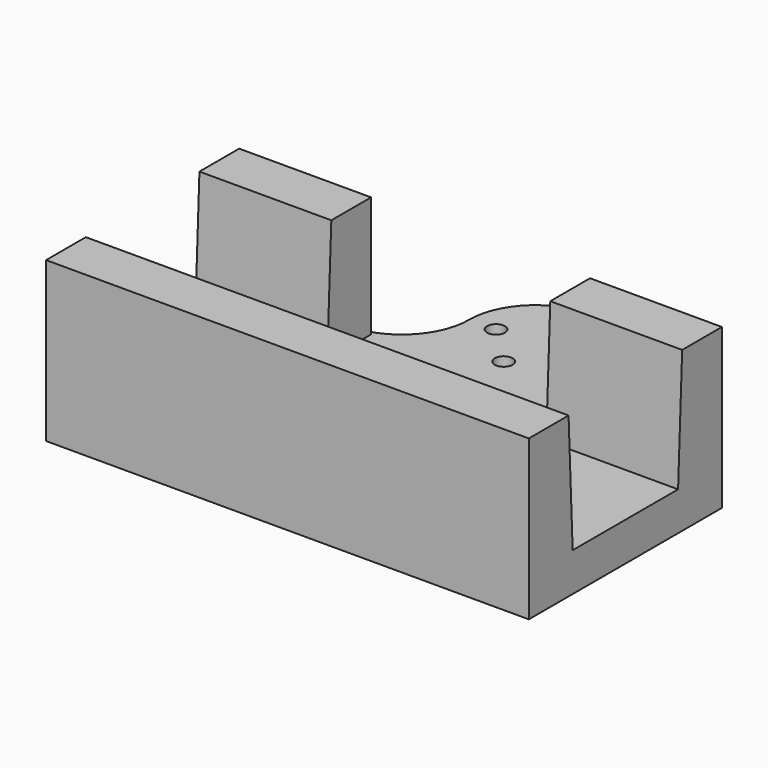
from build123d import *

# Parameters (mm, degrees)
F0_W     = 45.36
F0_H     = 15
F0_R     = 1.85
F1_DEPTH = 8
F3_DEPTH = 25
F5_DEPTH = 100


with BuildPart() as f1:
    # F0 (on Top) → F1 (new body)
    with BuildSketch(Plane.XY):
        with BuildLine():
            ThreePointArc((27.5, -14), (17.600505, -9.899495), (13.5, 0))
            ThreePointArc((13.5, 0), (0, 13.5), (-13.5, 0))
            ThreePointArc((-13.5, 0), (-17.600505, -9.899495), (-27.5, -14))
            Line((-27.5, -14), (-50, -14))
            Line((-50, -14), (-50, -64))
            Line((-50, -64), (50, -64))
            Line((50, -64), (50, -14))
            Line((50, -14), (27.5, -14))
        make_face()
        with Locations((0, -29.65)):
            Rectangle(F0_W, F0_H, mode=Mode.SUBTRACT)
        with Locations((-8, 0)):
            Circle(F0_R, mode=Mode.SUBTRACT)
        with Locations((0, -8)):
            Circle(F0_R, mode=Mode.SUBTRACT)
        with Locations((8, 0)):
            Circle(F0_R, mode=Mode.SUBTRACT)
        with Locations((0, 8)):
            Circle(F0_R, mode=Mode.SUBTRACT)
    extrude(amount=F1_DEPTH)

    # F2 (on face) → F3 (join)
    with BuildSketch(Plane.XY.offset(8)):
        Polygon((-27.5, -14), (-50, -14), (-50, -64), (50, -64), (50, -14), (27.5, -14), (22.68, -14), (22.68, -22.15), (22.68, -37.15), (-22.68, -37.15), (-22.68, -22.15), (-22.68, -14), align=None)
    extrude(amount=F3_DEPTH)

    # F4 (on face) → F5 (cut, through all)
    with BuildSketch(Plane(origin=(-50, 0, 0), x_dir=(0, -1, 0), z_dir=(-1, 0, 0))):
        Polygon((24.292708, 33), (25.35, 8), (52.65, 8), (53.707292, 33), align=None)
    extrude(amount=-F5_DEPTH, mode=Mode.SUBTRACT)


solid = f1.part
